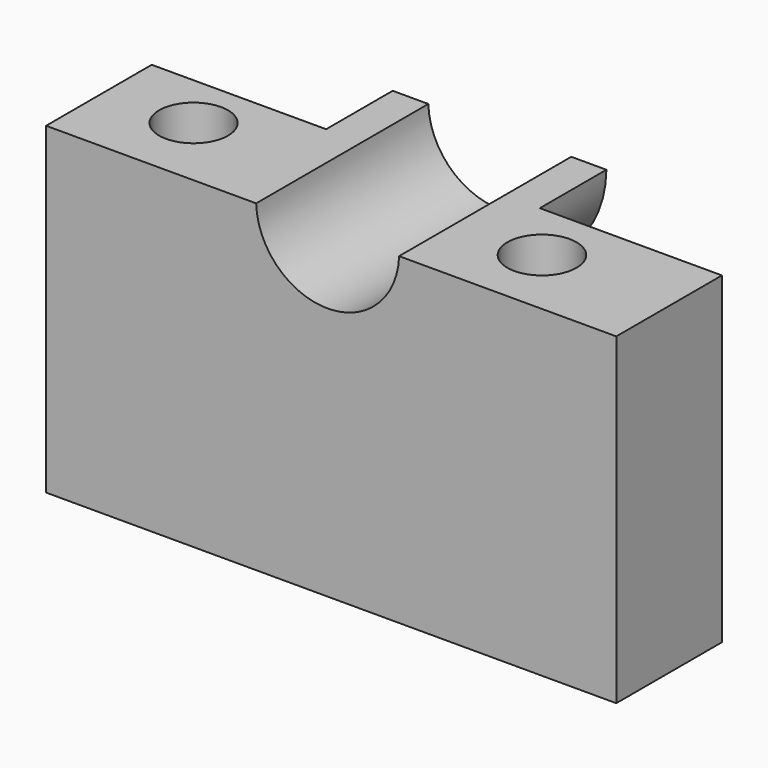
from build123d import *

# Parameters (mm, degrees)
F1_DEPTH = 25.4
F3_DEPTH = 41.402
F4_R     = 6.626183
F6_DEPTH = 212.598
F5_R     = 6.659783
F7_DEPTH = 146.05


with BuildPart() as f1:
    # F0 (on Front) → F1 (new body)
    with BuildSketch(Plane.XZ):
        with BuildLine():
            Line((-17.790243, 36.410082), (-51.342823, 36.410082))
            Line((-51.342823, 36.410082), (-51.342823, -25.717501))
            Line((-51.342823, -25.717501), (58.348302, -25.717501))
            Line((58.348302, -25.717501), (58.348302, 36.410082))
            Line((58.348302, 36.410082), (23.320885, 36.410082))
            ThreePointArc((23.320885, 36.410082), (2.765321, 16.062069), (-17.790243, 36.410082))
        make_face()
    extrude(amount=F1_DEPTH)

    # F2 (on face) → F3 (join)
    with BuildSketch(Plane.XZ.offset(25.4)):
        with BuildLine():
            Line((-10.932595, 36.410082), (-17.790243, 36.410082))
            ThreePointArc((-17.790243, 36.410082), (2.765321, 16.062069), (23.320885, 36.410082))
            Line((23.320885, 36.410082), (16.566781, 36.410082))
            ThreePointArc((16.566781, 36.410082), (2.817093, 23.073848), (-10.932595, 36.410082))
        make_face()
    extrude(amount=-F3_DEPTH)

    # F4 (on face) → F6 (cut)
    with BuildSketch(Plane.XY.offset(36.410082)):
        with Locations((-34.610964, -10.85051)):
            Circle(F4_R)
    extrude(amount=-F6_DEPTH, mode=Mode.SUBTRACT)

    # F5 (on face) → F7 (cut)
    with BuildSketch(Plane.XY.offset(36.410082)):
        with Locations((33.094294, -11.707598)):
            Circle(F5_R)
    extrude(amount=-F7_DEPTH, mode=Mode.SUBTRACT)


solid = f1.part
